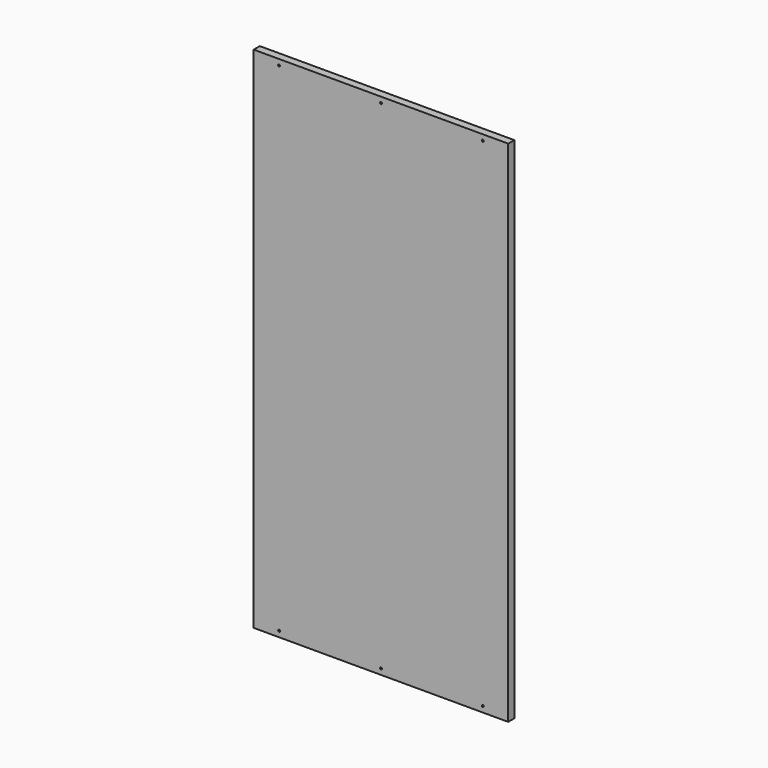
from build123d import *

# Parameters (mm, degrees)
F0_W     = 1000
F0_H     = 2000
F1_DEPTH = 30
F2_R     = 4
F3_DEPTH = 30


with BuildPart() as f1:
    # F0 (on Front) → F1 (new body)
    with BuildSketch(Plane.XZ):
        with Locations((500, 1000)):
            Rectangle(F0_W, F0_H)
    extrude(amount=F1_DEPTH)

    # F2 (on face) → F3 (cut)
    with BuildSketch(Plane.XZ.offset(30)):
        with Locations((100, 22.5)):
            Circle(F2_R)
        with Locations((500, 22.5)):
            Circle(F2_R)
        with Locations((900, 22.5)):
            Circle(F2_R)
        with Locations((100, 1977.5)):
            Circle(F2_R)
        with Locations((500, 1977.5)):
            Circle(F2_R)
        with Locations((900, 1977.5)):
            Circle(F2_R)
    extrude(amount=-F3_DEPTH, mode=Mode.SUBTRACT)


solid = f1.part
